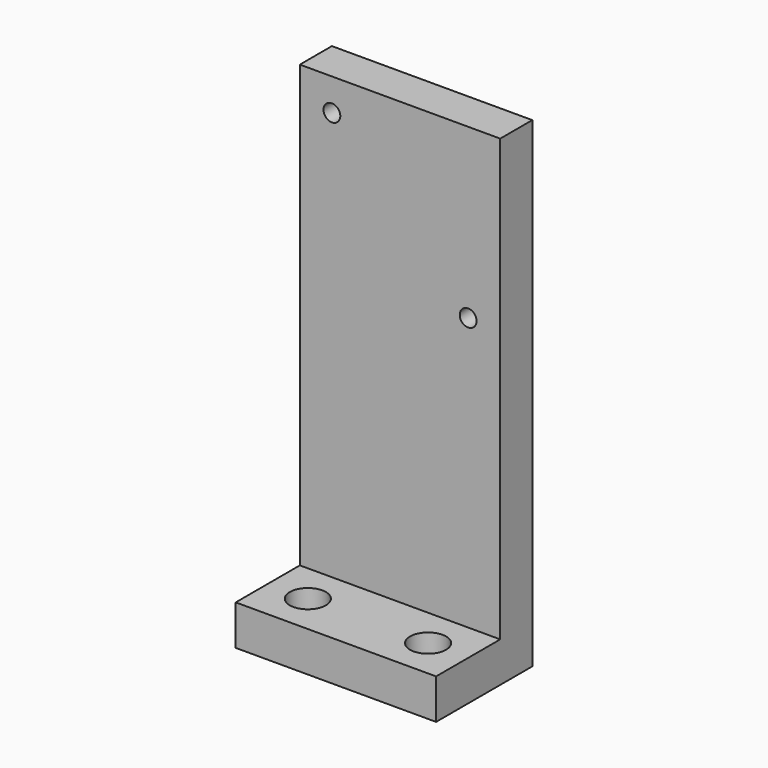
from build123d import *

# Parameters (mm, degrees)
F0_W     = 50
F0_H     = 120
F1_DEPTH = 10
F2_W     = 50
F2_H     = 10
F3_DEPTH = 20
F4_R     = 4.5
F5_DEPTH = 10.001
F7_D     = 4.2


with BuildPart() as f1:
    # F0 (on Front) → F1 (new body)
    with BuildSketch(Plane.XZ):
        with Locations((25, -60)):
            Rectangle(F0_W, F0_H)
    extrude(amount=F1_DEPTH)

    # F2 (on face) → F3 (join)
    with BuildSketch(Plane.XZ.offset(10)):
        with Locations((25, -115)):
            Rectangle(F2_W, F2_H)
    extrude(amount=F3_DEPTH)

    # F4 (on face) → F5 (cut, through all)
    with BuildSketch(Plane.XY.offset(-110)):
        with Locations((10, -20)):
            Circle(F4_R)
        with Locations((40, -20)):
            Circle(F4_R)
    extrude(amount=-F5_DEPTH, mode=Mode.SUBTRACT)

    # F7 (through all)
    with Locations(Plane.XZ.offset(10)):
        with Locations((8, -8), (42, -42)):
            Hole(F7_D / 2)


solid = f1.part
